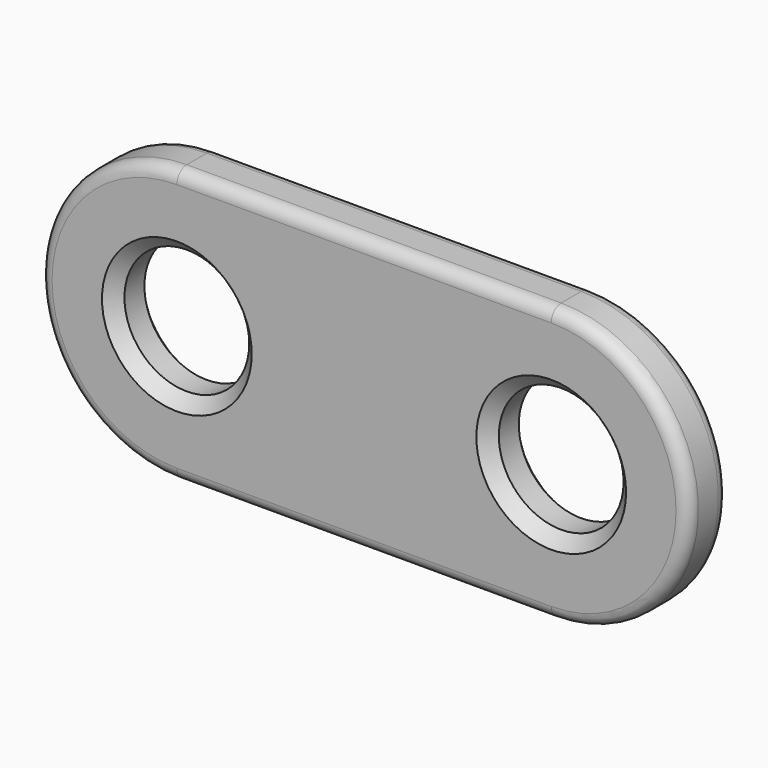
from build123d import *

# Parameters (mm, degrees)
F0_R     = 2.5
F1_DEPTH = 2
F2_SIZE  = 0.5
F3_R     = 0.5


with BuildPart() as f1:
    # F0 (on Front) → F1 (new body)
    with BuildSketch(Plane.XZ):
        with BuildLine():
            Line((8.957038, 9.614641), (-6.042962, 9.614641))
            ThreePointArc((-6.042962, 9.614641), (-11.542962, 4.114641), (-6.042962, -1.385359))
            Line((-6.042962, -1.385359), (8.957038, -1.385359))
            ThreePointArc((8.957038, -1.385359), (14.457038, 4.114641), (8.957038, 9.614641))
        make_face()
        with Locations((-6.042962, 4.114641)):
            Circle(F0_R, mode=Mode.SUBTRACT)
        with Locations((8.957038, 4.114641)):
            Circle(F0_R, mode=Mode.SUBTRACT)
    extrude(amount=F1_DEPTH)

    # F2
    f2_edges = [f1.edges().sort_by_distance(p)[0] for p in [
        (-8.542962, -2, 4.114641),
        (6.457038, -2, 4.114641),
        (-8.542962, 0, 4.114641),
        (6.457038, 0, 4.114641),
    ]]
    chamfer(f2_edges, length=F2_SIZE)

    # F3
    f3_edges = [f1.edges().sort_by_distance(p)[0] for p in [
        (1.457038, -2, -1.385359),
        (1.457038, 0, -1.385359),
    ]]
    fillet(f3_edges, radius=F3_R)


solid = f1.part
